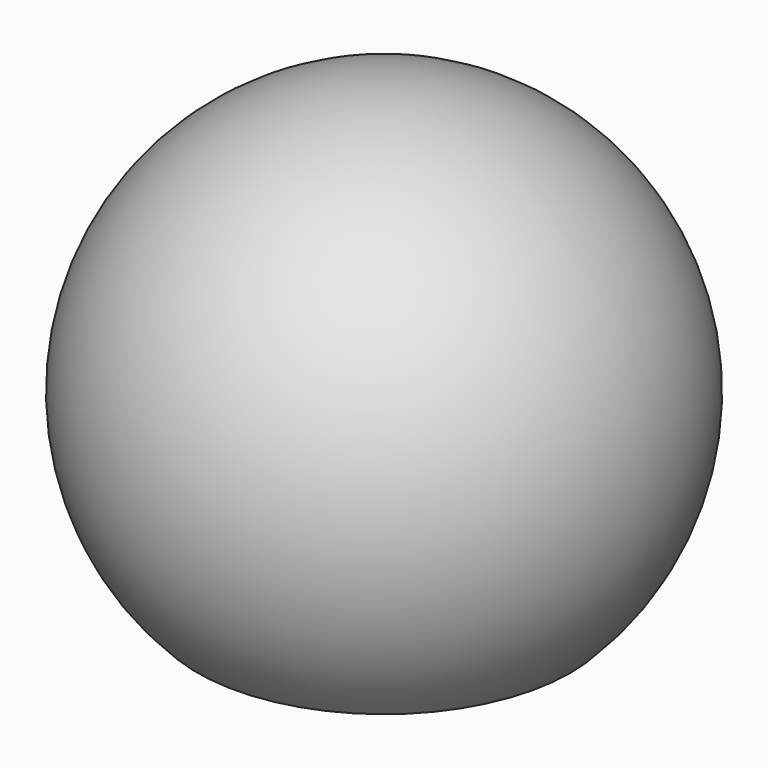
from build123d import *

# Parameters (mm, degrees)
F3_DEPTH = 11


with BuildPart() as f1:
    # F0 (on Front) → F1 (revolve)
    with BuildSketch(Plane.XZ):
        with BuildLine():
            ThreePointArc((12.020815, -12.020815), (15.705952, 6.505618), (0, 17))
            Line((0, 17), (0, -12.020815))
            Line((0, -12.020815), (12.020815, -12.020815))
        make_face()
    revolve(axis=Axis((0, 0, 0), (0, 0, -1)))

    # F2 (on face) → F3 (cut)
    with BuildSketch(Plane(origin=(0, 0, -12.020815), x_dir=(1, 0, 0), z_dir=(0, 0, -1))):
        with BuildLine():
            Line((-0.425, -3.121198), (-0.425, 3.121198))
            ThreePointArc((-0.425, 3.121198), (-3.15, 0), (-0.425, -3.121198))
        make_face()
        with BuildLine():
            ThreePointArc((0.425, -3.121198), (2.372894, -2.071684), (3.15, 0))
            ThreePointArc((3.15, 0), (2.372894, 2.071684), (0.425, 3.121198))
            Line((0.425, 3.121198), (0.425, -3.121198))
        make_face()
    extrude(amount=-F3_DEPTH, mode=Mode.SUBTRACT)


solid = f1.part
